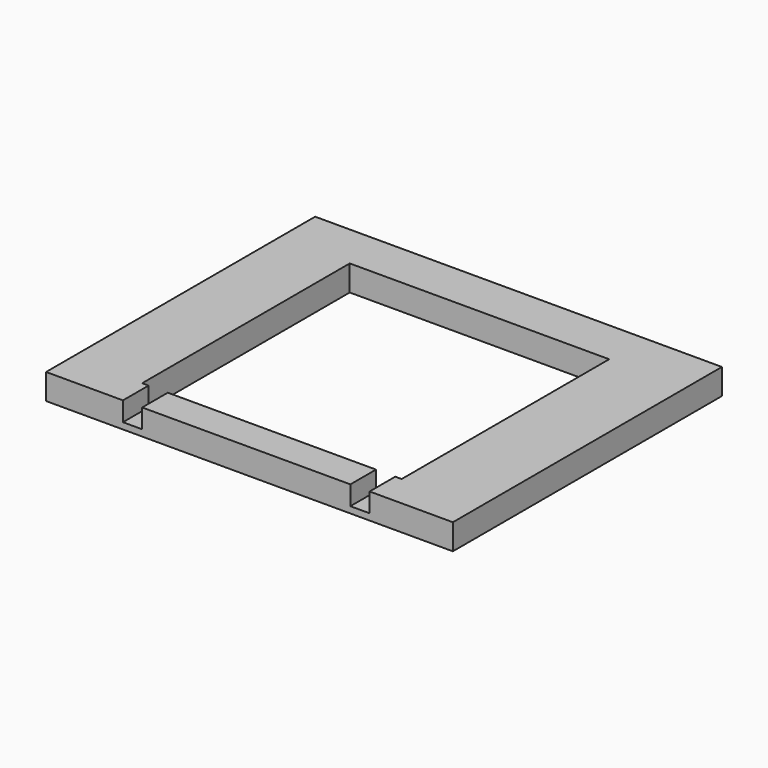
from build123d import *

# Parameters (mm, degrees)
F0_W     = 63.5
F0_H     = 52.5
F1_DEPTH = 4
F2_W     = 3
F2_H     = 5
F3_DEPTH = 3
F4_DEPTH = 4


with BuildPart() as f1:
    # F0 (on Top) → F1 (new body)
    with BuildSketch(Plane.XY):
        with Locations((31.75, 26.25)):
            Rectangle(F0_W, F0_H)
        with Locations((31.75, 26.25)):
            Rectangle(F0_W, F0_H)
    extrude(amount=F1_DEPTH)

    # F2 (on face) → F3 (cut)
    with BuildSketch(Plane.XY.offset(4)):
        with Locations((13.5, 2.5)):
            Rectangle(F2_W, F2_H)
        with Locations((49, 2.5)):
            Rectangle(F2_W, F2_H)
    extrude(amount=-F3_DEPTH, mode=Mode.SUBTRACT)

    # F2 (on face) → F4 (cut)
    with BuildSketch(Plane.XY.offset(4)):
        Polygon((11, 45.5), (11, 5), (12, 5), (15, 5), (47.5, 5), (50.5, 5), (51.5, 5), (51.5, 45.5), align=None)
    extrude(amount=-F4_DEPTH, mode=Mode.SUBTRACT)


solid = f1.part
